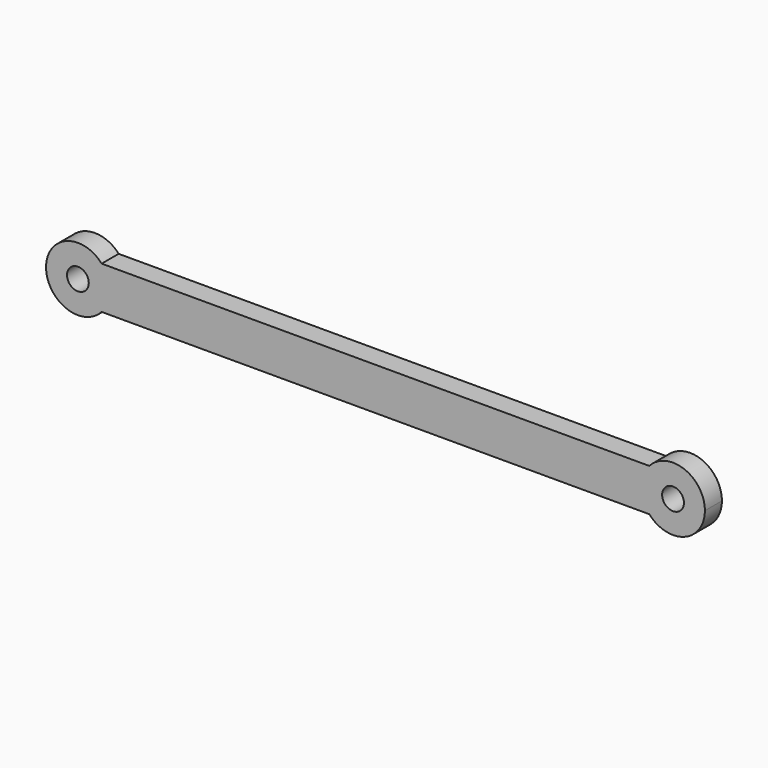
from build123d import *

# Parameters (mm, degrees)
F0_R     = 1.6256
F1_DEPTH = 3.175


with BuildPart() as f1:
    # F0 (on Front) → F1 (new body)
    with BuildSketch(Plane.XZ):
        with BuildLine():
            ThreePointArc((3.5497579143, -3.175), (4.4489958596, -1.6993652025), (4.7625, 0))
            ThreePointArc((4.7625, 0), (4.4489958596, 1.6993652025), (3.5497579143, 3.175))
            ThreePointArc((3.5497579143, 3.175), (-4.7625, 0), (3.5497579143, -3.175))
        make_face()
        Circle(F0_R, mode=Mode.SUBTRACT)
        with BuildLine():
            ThreePointArc((3.5497579143, 3.175), (4.4489958596, 1.6993652025), (4.7625, 0))
            Line((4.7625, 0), (84.1375, 0))
            ThreePointArc((84.1375, 0), (84.4510041404, 1.6993652025), (85.3502420857, 3.175))
            Line((85.3502420857, 3.175), (3.5497579143, 3.175))
        make_face()
        with BuildLine():
            Line((84.1375, 0), (4.7625, 0))
            ThreePointArc((4.7625, 0), (4.4489958596, -1.6993652025), (3.5497579143, -3.175))
            Line((3.5497579143, -3.175), (85.3502420857, -3.175))
            ThreePointArc((85.3502420857, -3.175), (84.4510041404, -1.6993652025), (84.1375, 0))
        make_face()
        with BuildLine():
            ThreePointArc((85.3502420857, 3.175), (84.4510041404, 1.6993652025), (84.1375, 0))
            ThreePointArc((84.1375, 0), (84.4510041404, -1.6993652025), (85.3502420857, -3.175))
            ThreePointArc((85.3502420857, -3.175), (90.5993652025, -4.4489958596), (93.6625, 0))
            ThreePointArc((93.6625, 0), (90.5993652025, 4.4489958596), (85.3502420857, 3.175))
        make_face()
        with BuildLine():
            ThreePointArc((90.5256, 0), (88.9, -1.6256), (87.2744, 0))
            ThreePointArc((87.2744, 0), (88.9, 1.6256), (90.5256, 0))
        make_face(mode=Mode.SUBTRACT)
    extrude(amount=F1_DEPTH)


solid = f1.part
